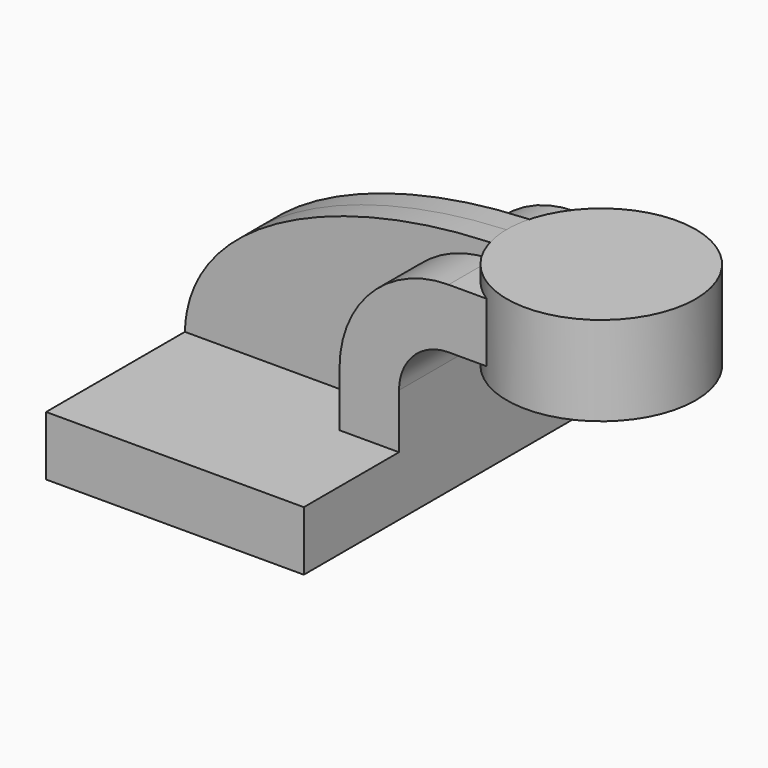
from build123d import *

# Parameters (mm, degrees)
F1_DEPTH = 63.5
F0_W     = 20.569474
F0_H     = 19.05
F2_DEPTH = 25.4
F3_DEPTH = 7.9375


with BuildPart() as f1:
    # F0 (on Front) → F1 (new body, symmetric)
    with BuildSketch(Plane.XZ):
        Polygon((22.225, 9.525), (-41.275, 9.525), (-41.275, -9.525), (41.275, -9.525), (41.275, 9.525), align=None)
    extrude(amount=F1_DEPTH, both=True)

    # F0 (on Front) → F2 (join, symmetric)
    with BuildSketch(Plane.XZ):
        with BuildLine():
            Line((22.225, 27.0002), (22.225, 9.525))
            Line((22.225, 9.525), (41.275, 9.525))
            Line((41.275, 9.525), (41.275, 27.0002))
            ThreePointArc((41.275, 27.0002), (45.92468, 38.22552), (57.15, 42.8752))
            Line((57.15, 42.8752), (65.155526, 42.8752))
            Line((65.155526, 42.8752), (65.155526, 61.9252))
            Line((65.155526, 61.9252), (57.15, 61.9252))
            ThreePointArc((57.15, 61.9252), (32.454296, 51.695904), (22.225, 27.0002))
        make_face()
        with Locations((75.440263, 52.4002)):
            Rectangle(F0_W, F0_H)
    extrude(amount=F2_DEPTH, both=True)

    # F0 (on Front) → F3 (join, symmetric)
    with BuildSketch(Plane.XZ):
        with BuildLine():
            add(Edge.make_bspline(
                [(65.155526, 66.675), (13.582303, 67.183912), (-40.261839, 46.325367), (-41.275, 9.525)],
                knots=[0, 0, 0, 0, 120.803888, 120.803888, 120.803888, 120.803888], degree=3))
            Line((-41.275, 9.525), (22.225, 9.525))
            Line((22.225, 9.525), (22.225, 27.0002))
            ThreePointArc((22.225, 27.0002), (32.454296, 51.695904), (57.15, 61.9252))
            Line((57.15, 61.9252), (65.155526, 61.9252))
            Line((65.155526, 61.9252), (65.155526, 66.675))
        make_face()
    extrude(amount=F3_DEPTH, both=True)

    # F0 (on Front) → F4 (revolve)
    with BuildSketch(Plane.XZ):
        Polygon((115.955526, 66.675), (85.725, 66.675), (85.725, 61.9252), (85.725, 42.8752), (85.725, 38.1), (115.955526, 38.1), align=None)
    revolve(axis=Axis((85.725, 0, 40.4876), (0, 0, -1)))


solid = f1.part
